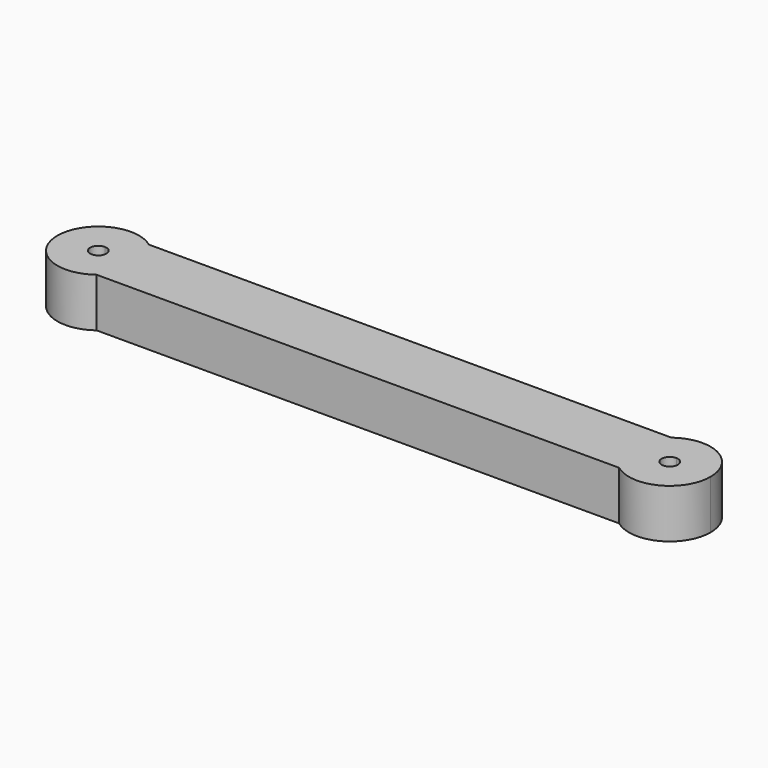
from build123d import *

# Parameters (mm, degrees)
F1_DEPTH = 3


with BuildPart() as f1:
    # F0 (on Top) → F1 (new body)
    with BuildSketch(Plane.XY):
        with BuildLine():
            Line((-16, -2), (16, -2))
            ThreePointArc((16, -2), (15, 0), (16, 2))
            Line((16, 2), (-16, 2))
            ThreePointArc((-16, 2), (-15.2639320225, 1.1180339887), (-15, 0))
            ThreePointArc((-15, 0), (-15.2639320225, -1.1180339887), (-16, -2))
        make_face()
        with BuildLine():
            Line((16, -2), (17.5, -2))
            Line((17.5, -2), (17.5, -0.5))
            ThreePointArc((17.5, -0.5), (17, 0), (17.5, 0.5))
            Line((17.5, 0.5), (17.5, 2))
            Line((17.5, 2), (16, 2))
            ThreePointArc((16, 2), (15, 0), (16, -2))
        make_face()
        with BuildLine():
            Line((17.5, -0.5), (17.5, -2))
            Line((17.5, -2), (16, -2))
            ThreePointArc((16, -2), (18.6180339887, -2.2360679775), (20, 0))
            ThreePointArc((20, 0), (18.6180339887, 2.2360679775), (16, 2))
            Line((16, 2), (17.5, 2))
            Line((17.5, 2), (17.5, 0.5))
            ThreePointArc((17.5, 0.5), (17.8535533906, 0.3535533906), (18, 0))
            ThreePointArc((18, 0), (17.8535533906, -0.3535533906), (17.5, -0.5))
        make_face()
        with BuildLine():
            Line((-17.5, -2), (-16, -2))
            ThreePointArc((-16, -2), (-15.2639320225, -1.1180339887), (-15, 0))
            ThreePointArc((-15, 0), (-15.2639320225, 1.1180339887), (-16, 2))
            Line((-16, 2), (-17.5, 2))
            Line((-17.5, 2), (-17.5, 0.5))
            ThreePointArc((-17.5, 0.5), (-17.1464466094, 0.3535533906), (-17, 0))
            ThreePointArc((-17, 0), (-17.1464466094, -0.3535533906), (-17.5, -0.5))
            Line((-17.5, -0.5), (-17.5, -2))
        make_face()
        with BuildLine():
            ThreePointArc((-16, 2), (-20, 0), (-16, -2))
            Line((-16, -2), (-17.5, -2))
            Line((-17.5, -2), (-17.5, -0.5))
            ThreePointArc((-17.5, -0.5), (-18, 0), (-17.5, 0.5))
            Line((-17.5, 0.5), (-17.5, 2))
            Line((-17.5, 2), (-16, 2))
        make_face()
    extrude(amount=F1_DEPTH)


solid = f1.part
